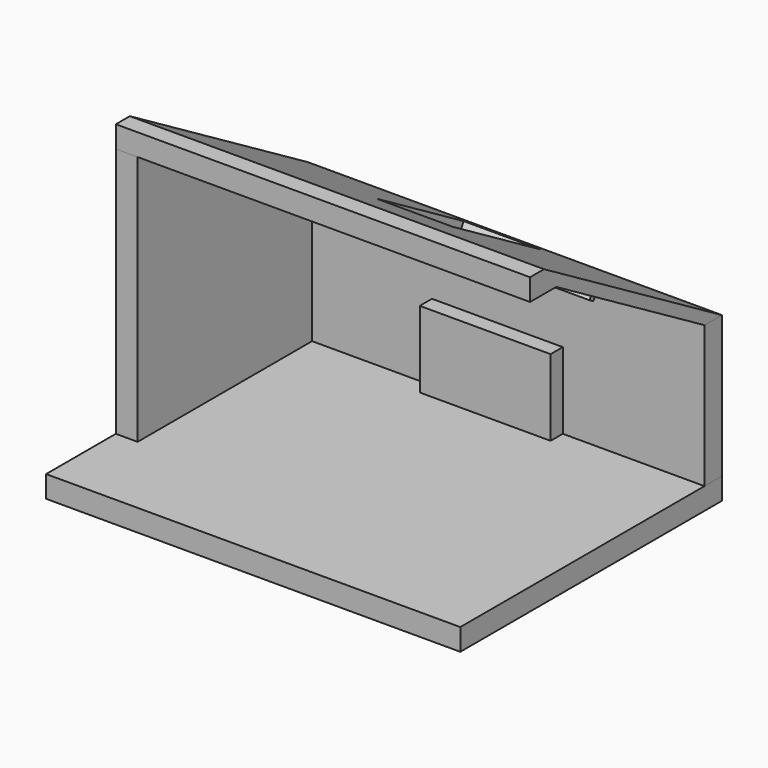
from build123d import *

# Parameters (mm, degrees)
F0_W      = 3800
F0_H      = 3000
F1_DEPTH  = 100
F2_W      = 3800
F2_H      = 200
F3_DEPTH  = 1300
F5_DEPTH  = 200
F7_DEPTH  = 3800
F8_W      = 700
F8_H      = 1160
F9_DEPTH  = 101.4040253127
F10_W     = 1200
F10_H     = 700
F11_DEPTH = 140
F12_DEPTH = 50


with BuildPart() as f1:
    # F0 (on Top) → F1 (new body, symmetric)
    with BuildSketch(Plane.XY):
        Rectangle(F0_W, F0_H)
    extrude(amount=F1_DEPTH, both=True)


with BuildPart() as f3:
    # F2 (on face) → F3 (new body)
    with BuildSketch(Plane.XY.offset(100)):
        with Locations((0, 1400)):
            Rectangle(F2_W, F2_H)
    extrude(amount=F3_DEPTH)


with BuildPart() as f5:
    # F4 (on face) → F5 (new body)
    with BuildSketch(Plane(origin=(-1900, 0, 0), x_dir=(0, -1, 0), z_dir=(-1, 0, 0))):
        Polygon((400, 2400), (-1300, 1400), (-1300, 100), (700, 100), (700, 2400), align=None)
    extrude(amount=-F5_DEPTH)


with BuildPart() as f7:
    # F6 (on face) → F7 (new body, through all)
    with BuildSketch(Plane.YZ.offset(1900)):
        Polygon((-700, 2600), (-700, 2400), (-400, 2400), (1300, 1400), (1500, 1400), (-540, 2600), align=None)
    extrude(amount=-F7_DEPTH)

    # F8 (on face) → F9 (cut, through all)
    with BuildSketch(Plane(origin=(0, 946.0154241645, 1608.2262210797), x_dir=(1, 0, 0), z_dir=(0, -0.5070201266, -0.8619342152))):
        with Locations((0, 169.3136974837)):
            Rectangle(F8_W, F8_H)
    extrude(amount=-F9_DEPTH, mode=Mode.SUBTRACT)


with BuildPart() as f11:
    # F10 (on face) → F11 (new body)
    with BuildSketch(Plane.XZ.offset(-1300)):
        with Locations((0, 450)):
            Rectangle(F10_W, F10_H)
    extrude(amount=F11_DEPTH)


with BuildPart() as f12:
    # F8 (on face) → F12 (new body)
    with BuildSketch(Plane(origin=(0, 946.0154241645, 1608.2262210797), x_dir=(1, 0, 0), z_dir=(0, -0.5070201266, -0.8619342152))):
        Polygon((-1700, 749.3136974837), (-350, 749.3136974837), (350, 749.3136974837), (1700, 749.3136974837), (1700, 799.3136974837), (-1700, 799.3136974837), align=None)
    extrude(amount=F12_DEPTH)


solid = Compound([f1.part, f3.part, f5.part, f7.part, f11.part, f12.part])
